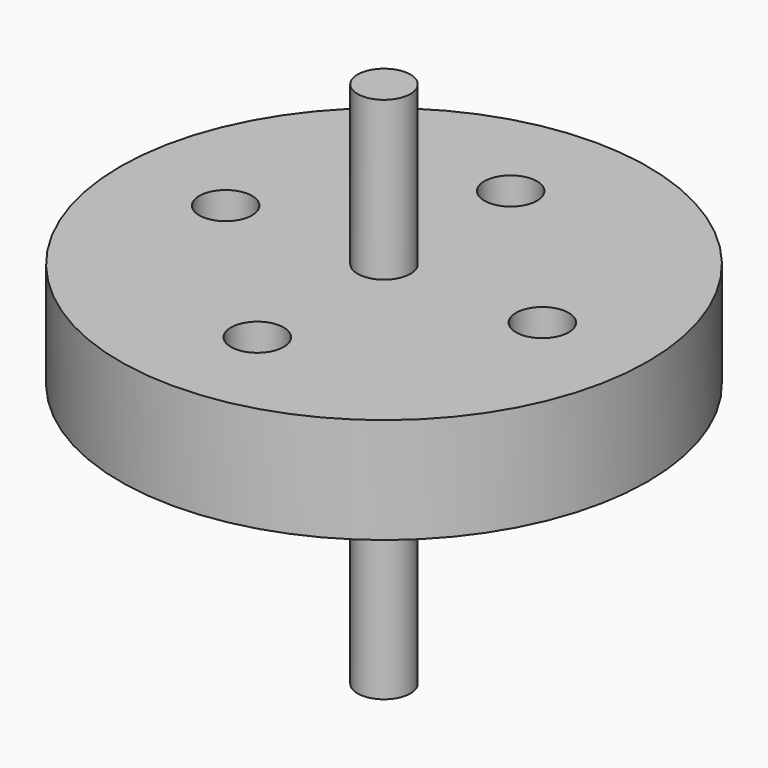
from build123d import *

# Parameters (mm, degrees)
F0_R     = 63.5
F1_DEPTH = 25.4
F2_R     = 6.35
F3_DEPTH = 25.401
F4_R     = 6.35
F5_DEPTH = 63.5


with BuildPart() as f1:
    # F0 (on Top) → F1 (new body)
    with BuildSketch(Plane.XY):
        Circle(F0_R)
    extrude(amount=F1_DEPTH)

    # F2 (on face) → F3 (cut, through all)
    with BuildSketch(Plane.XY.offset(25.4)):
        with Locations((-38.1, 0)):
            Circle(F2_R)
        with Locations((0, -38.1)):
            Circle(F2_R)
        with Locations((38.1, 0)):
            Circle(F2_R)
        with Locations((0, 38.1)):
            Circle(F2_R)
    extrude(amount=-F3_DEPTH, mode=Mode.SUBTRACT)


with BuildPart() as f5:
    # F4 (on Top) → F5 (new body, symmetric)
    with BuildSketch(Plane.XY):
        Circle(F4_R)
    extrude(amount=F5_DEPTH, both=True)


solid = Compound([f1.part, f5.part])
